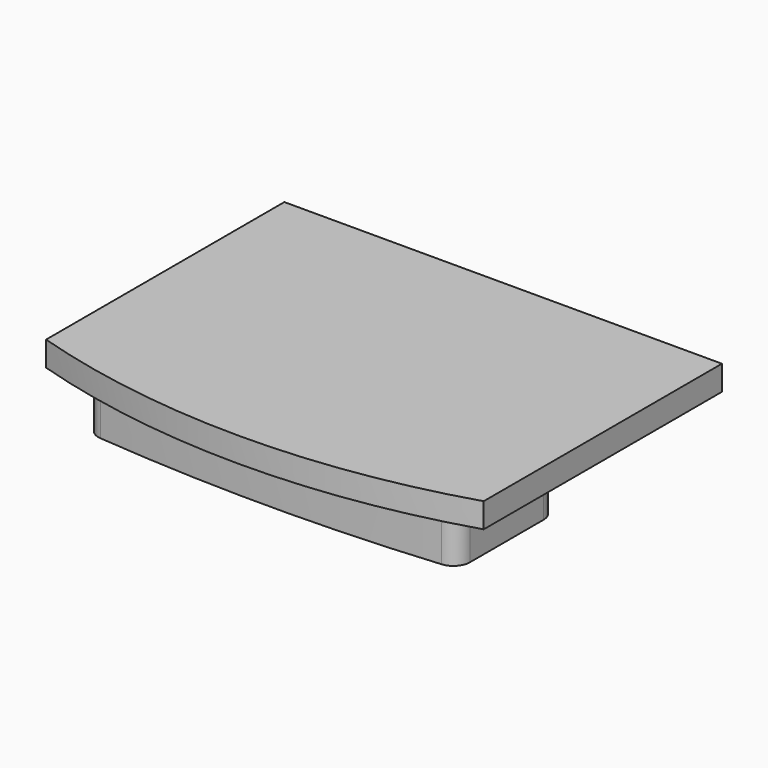
from build123d import *

# Parameters (mm, degrees)
F1_DEPTH = 3
F2_R     = 1
F4_DEPTH = 1.5


with BuildPart() as f1:
    # F0 (on Top) → F1 (new body)
    with BuildSketch(Plane.XY):
        with BuildLine():
            ThreePointArc((0.75, 7.2), (-10.5, 7.75), (-21.75, 7.2))
            Line((-21.75, 7.2), (-21.75, -0.2))
            ThreePointArc((-21.75, -0.2), (-10.5, -0.75), (0.75, -0.2))
            Line((0.75, -0.2), (0.75, 7.2))
        make_face()
    extrude(amount=F1_DEPTH)

    # F2
    f2_edges = [f1.edges().sort_by_distance(p)[0] for p in [
        (-21.75, 7.2, 1.5),
        (-21.75, -0.2, 1.5),
        (0.75, -0.2, 1.5),
        (0.75, 7.2, 1.5),
    ]]
    fillet(f2_edges, radius=F2_R)

    # F3 (on face) → F4 (join)
    with BuildSketch(Plane.XY.offset(3)):
        with BuildLine():
            Line((2.75, 17.285583), (-23.75, 17.285583))
            Line((-23.75, 17.285583), (-23.75, -0.75))
            ThreePointArc((-23.75, -0.75), (-10.5, -2.75), (2.75, -0.75))
            Line((2.75, -0.75), (2.75, 17.285583))
        make_face()
    extrude(amount=F4_DEPTH)


solid = f1.part
